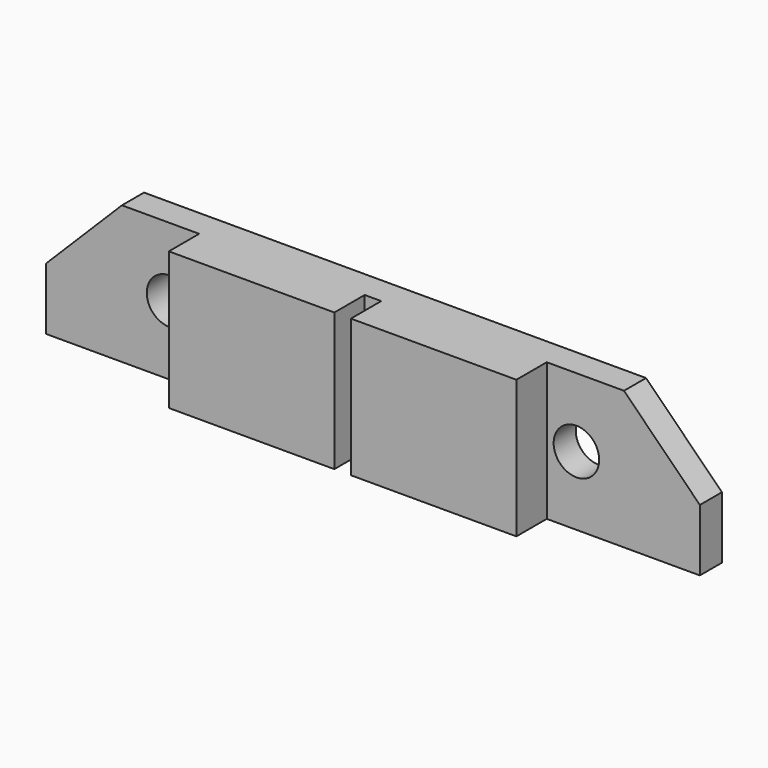
from build123d import *

# Parameters (mm, degrees)
SKETCH_W             = 47.4
SKETCH_H             = 2
PAD_DEPTH            = 10
SKETCH002_W          = 12
SKETCH002_H          = 10
PAD001_DEPTH         = 2.75
SKETCH003_R          = 1.65
POCKET_DEPTH         = 2.001
POCKET_DEPTH_BACK    = 2.751
POCKET001_DEPTH      = 2.001
POCKET001_DEPTH_BACK = 2.751


with BuildPart() as part:
    # Sketch → Pad (new body)
    with BuildSketch(Plane.XY):
        with Locations((0, 1)):
            Rectangle(SKETCH_W, SKETCH_H)
    extrude(amount=-PAD_DEPTH)

    # Sketch002 → Pad001 (join)
    with BuildSketch(Plane.XZ):
        with Locations((-6.6, -5)):
            Rectangle(SKETCH002_W, SKETCH002_H)
        with Locations((6.6, -5)):
            Rectangle(SKETCH002_W, SKETCH002_H)
    extrude(amount=PAD001_DEPTH)

    # Sketch003 → Pocket (cut, two sides)
    with BuildSketch(Plane.XZ) as pocket_sk:
        with Locations((-14.75, -5)):
            Circle(SKETCH003_R)
        with Locations((14.75, -5)):
            Circle(SKETCH003_R)
    extrude(amount=-POCKET_DEPTH, mode=Mode.SUBTRACT)
    extrude(pocket_sk.sketch, amount=POCKET_DEPTH_BACK, mode=Mode.SUBTRACT)

    # Sketch004 → Pocket001 (cut, two sides)
    with BuildSketch(Plane.XZ) as pocket001_sk:
        Polygon((-18.2, 0), (-23.7, -5.5), (-23.7, 0), align=None)
        Polygon((18.2, 0), (23.7, 0), (23.7, -5.5), align=None)
    extrude(amount=-POCKET001_DEPTH, mode=Mode.SUBTRACT)
    extrude(pocket001_sk.sketch, amount=POCKET001_DEPTH_BACK, mode=Mode.SUBTRACT)


solid = part.part
